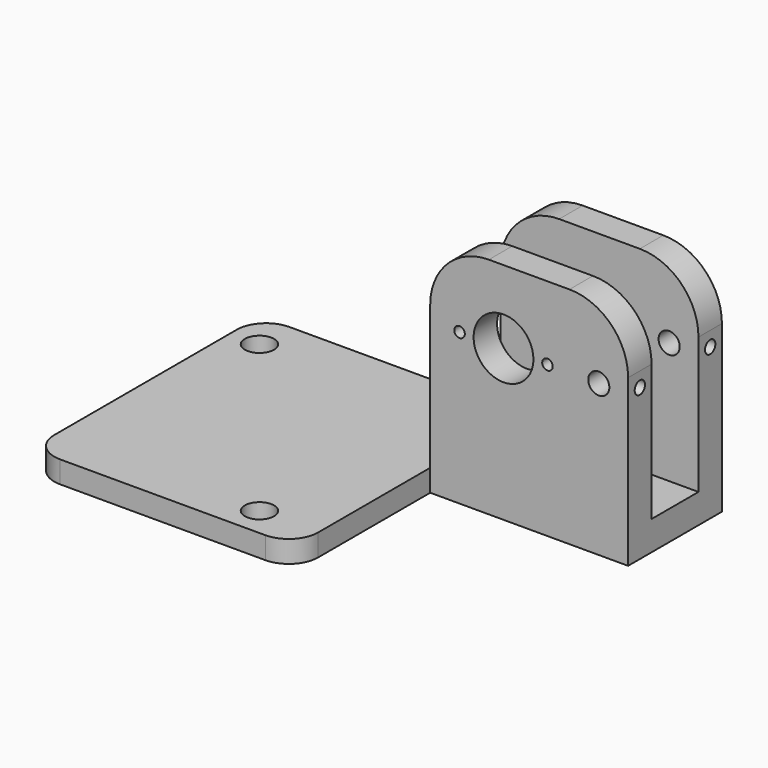
from build123d import *

# Parameters (mm, degrees)
F0_R     = 6.477
F0_R_2   = 2.286
F1_DEPTH = 25.4
F2_W     = 12.7
F2_H     = 54.030560414
F3_DEPTH = 42.8635
F4_R     = 3.175
F5_DEPTH = 4.7625
F6_R     = 1.143
F7_DEPTH = 6.35
F8_R     = 1.397
F9_DEPTH = 4.5415286302


with BuildPart() as f1:
    # F0 (on Front) → F1 (new body)
    with BuildSketch(Plane.XZ):
        with BuildLine():
            Line((-15.875, 35.8775), (-15.875, 0))
            Line((-15.875, 0), (26.9875, 0))
            Line((26.9875, 0), (26.9875, 35.8775))
            ThreePointArc((26.9875, 35.8775), (23.2677561211, 44.8577561211), (14.2875, 48.5775))
            Line((14.2875, 48.5775), (-3.175, 48.5775))
            ThreePointArc((-3.175, 48.5775), (-12.1552561211, 44.8577561211), (-15.875, 35.8775))
        make_face()
        with Locations((0, 32.7025)):
            Circle(F0_R, mode=Mode.SUBTRACT)
        with Locations((20.6375, 32.7025)):
            Circle(F0_R_2, mode=Mode.SUBTRACT)
    extrude(amount=F1_DEPTH)

    # F2 (on face) → F3 (cut, through all)
    with BuildSketch(Plane(origin=(-15.875, 0, 0), x_dir=(0, -1, 0), z_dir=(-1, 0, 0))):
        with Locations((12.7, 33.365280207)):
            Rectangle(F2_W, F2_H)
    extrude(amount=-F3_DEPTH, mode=Mode.SUBTRACT)

    # F4 (on Top) → F5 (join)
    with BuildSketch(Plane.XY):
        with BuildLine():
            Line((-15.875, -55.753), (-15.875, 0))
            Line((-15.875, 0), (-66.675, 0))
            ThreePointArc((-66.675, 0), (-71.1651280605, -1.8598719395), (-73.025, -6.35))
            Line((-73.025, -6.35), (-73.025, -55.753))
            ThreePointArc((-73.025, -55.753), (-71.1651280605, -60.2431280605), (-66.675, -62.103))
            Line((-66.675, -62.103), (-22.225, -62.103))
            ThreePointArc((-22.225, -62.103), (-17.7348719395, -60.2431280605), (-15.875, -55.753))
        make_face()
        with Locations((-28.575, -55.753)):
            Circle(F4_R, mode=Mode.SUBTRACT)
        with Locations((-66.675, -8.128)):
            Circle(F4_R, mode=Mode.SUBTRACT)
    extrude(amount=F5_DEPTH)

    # F6 (on face) → F7 (cut, through all)
    with BuildSketch(Plane.XZ.offset(25.4)):
        with Locations((9.525, 32.7025)):
            Circle(F6_R)
        with Locations((-9.525, 32.7025)):
            Circle(F6_R)
    extrude(amount=-F7_DEPTH, mode=Mode.SUBTRACT)

    # F8 (on face) → F9 (cut, through all)
    with BuildSketch(Plane.YZ.offset(26.9875)):
        with Locations((-22.225, 32.7025)):
            Circle(F8_R)
        with Locations((-3.175, 32.7025)):
            Circle(F8_R)
    extrude(amount=-F9_DEPTH, mode=Mode.SUBTRACT)


solid = f1.part
